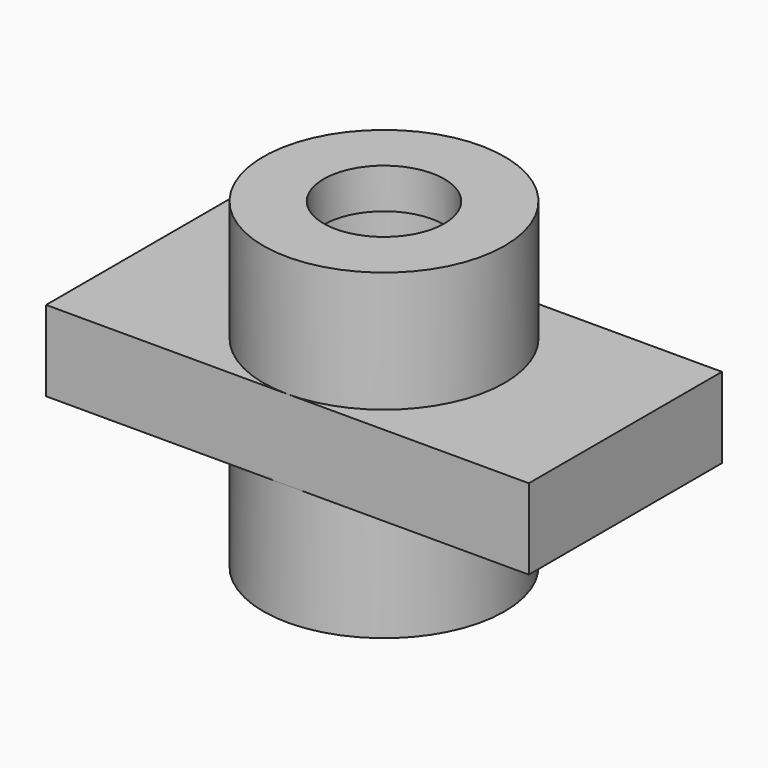
from build123d import *

# Parameters (mm, degrees)
F0_W      = 76.2
F0_H      = 38.1
F1_DEPTH  = 6.35
F2_R      = 19.05
F3_DEPTH  = 25.4
F4_R      = 9.525
F5_DEPTH  = 50.801
F6_R      = 12.7
F7_DEPTH  = 12.7
F8_R      = 12.7
F9_DEPTH  = 6.35
F10_R     = 9.525
F11_DEPTH = 50.801


with BuildPart() as f1:
    # F0 (on Top) → F1 (new body, symmetric)
    with BuildSketch(Plane.XY):
        with Locations((38.1, 19.05)):
            Rectangle(F0_W, F0_H)
    extrude(amount=F1_DEPTH, both=True)

    # F2 (on Top) → F3 (join, symmetric)
    with BuildSketch(Plane.XY):
        with Locations((38.1, 19.05)):
            Circle(F2_R)
    extrude(amount=F3_DEPTH, both=True)

    # F4 (on face) → F5 (cut, through all)
    with BuildSketch(Plane.XY.offset(25.4)):
        with Locations((38.1, 19.05)):
            Circle(F4_R)
    extrude(amount=-F5_DEPTH, mode=Mode.SUBTRACT)

    # F6 (on face) → F7 (cut)
    with BuildSketch(Plane.XY.offset(25.4)):
        with Locations((38.1, 19.05)):
            Circle(F6_R)
    extrude(amount=-F7_DEPTH, mode=Mode.SUBTRACT)

    # F8 (on face) → F9 (join)
    with BuildSketch(Plane.XY.offset(25.4)):
        with Locations((38.1, 19.05)):
            Circle(F8_R)
    extrude(amount=-F9_DEPTH)

    # F10 (on face) → F11 (cut, through all)
    with BuildSketch(Plane.XY.offset(25.4)):
        with Locations((38.1, 19.05)):
            Circle(F10_R)
    extrude(amount=-F11_DEPTH, mode=Mode.SUBTRACT)


solid = f1.part
